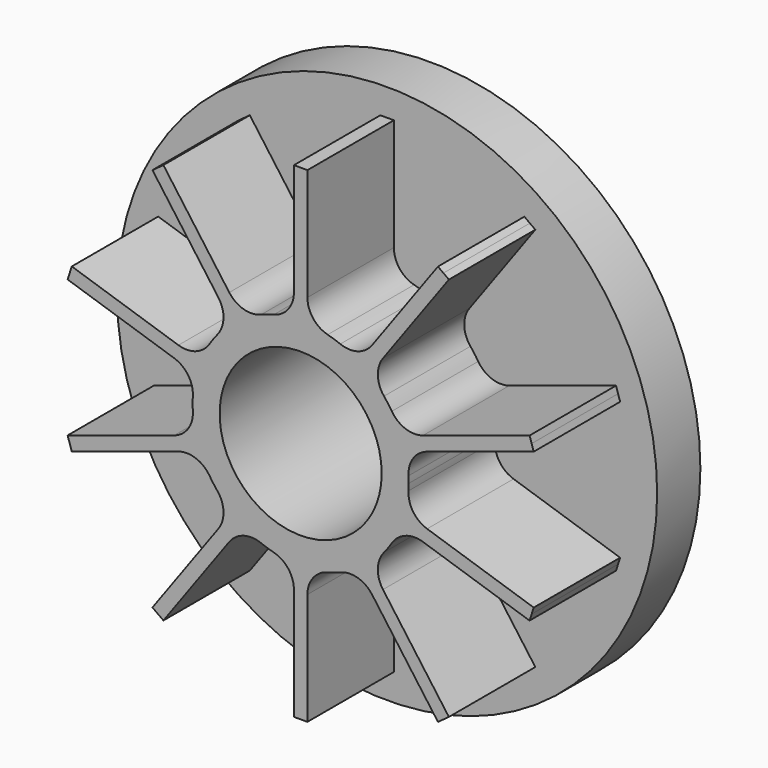
from build123d import *

# Parameters (mm, degrees)
F0_R     = 63.5
F1_DEPTH = 12.7
F3_DEPTH = 25.4
F4_R     = 6.35
F5_R     = 19.05
F6_DEPTH = 38.101
F7_R     = 59.055
F7_R_2   = 45.085
F8_DEPTH = 6.35


with BuildPart() as f1:
    # F0 (on Front) → F1 (new body)
    with BuildSketch(Plane.XZ):
        Circle(F0_R)
    extrude(amount=F1_DEPTH)

    # F2 (on face) → F3 (join)
    with BuildSketch(Plane.XZ.offset(12.7)):
        with BuildLine():
            ThreePointArc((24.600173, -6.323884), (25.19925, -3.187132), (25.4, 0))
            ThreePointArc((25.4, 0), (25.19925, 3.187132), (24.600173, 6.323884))
            ThreePointArc((24.600173, 6.323884), (24.156836, 7.849032), (23.619044, 9.343489))
            ThreePointArc((23.619044, 9.343489), (20.549032, 14.929745), (16.184872, 19.575748))
            ThreePointArc((16.184872, 19.575748), (14.929745, 20.549032), (13.616243, 21.441967))
            ThreePointArc((13.616243, 21.441967), (7.849032, 24.156836), (1.5875, 25.350342))
            ThreePointArc((1.5875, 25.350342), (0, 25.4), (-1.5875, 25.350342))
            ThreePointArc((-1.5875, 25.350342), (-7.849032, 24.156836), (-13.616243, 21.441967))
            ThreePointArc((-13.616243, 21.441967), (-14.929745, 20.549032), (-16.184872, 19.575748))
            ThreePointArc((-16.184872, 19.575748), (-20.549032, 14.929745), (-23.619044, 9.343489))
            ThreePointArc((-23.619044, 9.343489), (-24.156836, 7.849032), (-24.600173, 6.323884))
            ThreePointArc((-24.600173, 6.323884), (-25.4, 0), (-24.600173, -6.323884))
            ThreePointArc((-24.600173, -6.323884), (-24.156836, -7.849032), (-23.619044, -9.343489))
            ThreePointArc((-23.619044, -9.343489), (-20.549032, -14.929745), (-16.184872, -19.575748))
            ThreePointArc((-16.184872, -19.575748), (-14.929745, -20.549032), (-13.616243, -21.441967))
            ThreePointArc((-13.616243, -21.441967), (-7.849032, -24.156836), (-1.5875, -25.350342))
            ThreePointArc((-1.5875, -25.350342), (0, -25.4), (1.5875, -25.350342))
            ThreePointArc((1.5875, -25.350342), (7.849032, -24.156836), (13.616243, -21.441967))
            ThreePointArc((13.616243, -21.441967), (14.929745, -20.549032), (16.184872, -19.575748))
            ThreePointArc((16.184872, -19.575748), (20.549032, -14.929745), (23.619044, -9.343489))
            ThreePointArc((23.619044, -9.343489), (24.156836, -7.849032), (24.600173, -6.323884))
        make_face()
        with BuildLine():
            ThreePointArc((23.619044, 9.343489), (24.156836, 7.849032), (24.600173, 6.323884))
            Line((24.600173, 6.323884), (54.796217, 16.135174))
            Line((54.796217, 16.135174), (54.305652, 17.644976))
            Line((54.305652, 17.644976), (53.815088, 19.154778))
            Line((53.815088, 19.154778), (23.619044, 9.343489))
        make_face()
        with BuildLine():
            Line((54.796217, -16.135174), (24.600173, -6.323884))
            ThreePointArc((24.600173, -6.323884), (24.156836, -7.849032), (23.619044, -9.343489))
            Line((23.619044, -9.343489), (53.815088, -19.154778))
            Line((53.815088, -19.154778), (54.305652, -17.644976))
            Line((54.305652, -17.644976), (54.796217, -16.135174))
        make_face()
        with BuildLine():
            ThreePointArc((13.616243, 21.441967), (14.929745, 20.549032), (16.184872, 19.575748))
            Line((16.184872, 19.575748), (34.847053, 45.262038))
            Line((34.847053, 45.262038), (33.562739, 46.195147))
            Line((33.562739, 46.195147), (32.278424, 47.128256))
            Line((32.278424, 47.128256), (13.616243, 21.441967))
        make_face()
        with BuildLine():
            Line((34.847053, -45.262038), (16.184872, -19.575748))
            ThreePointArc((16.184872, -19.575748), (14.929745, -20.549032), (13.616243, -21.441967))
            Line((13.616243, -21.441967), (32.278424, -47.128256))
            Line((32.278424, -47.128256), (33.562739, -46.195147))
            Line((33.562739, -46.195147), (34.847053, -45.262038))
        make_face()
        with BuildLine():
            ThreePointArc((-1.5875, 25.350342), (0, 25.4), (1.5875, 25.350342))
            Line((1.5875, 25.350342), (1.5875, 57.100342))
            Line((1.5875, 57.100342), (0, 57.100342))
            Line((0, 57.100342), (-1.5875, 57.100342))
            Line((-1.5875, 57.100342), (-1.5875, 25.350342))
        make_face()
        with BuildLine():
            Line((1.5875, -57.100342), (1.5875, -25.350342))
            ThreePointArc((1.5875, -25.350342), (0, -25.4), (-1.5875, -25.350342))
            Line((-1.5875, -25.350342), (-1.5875, -57.100342))
            Line((-1.5875, -57.100342), (0, -57.100342))
            Line((0, -57.100342), (1.5875, -57.100342))
        make_face()
        with BuildLine():
            ThreePointArc((-16.184872, 19.575748), (-14.929745, 20.549032), (-13.616243, 21.441967))
            Line((-13.616243, 21.441967), (-32.278424, 47.128256))
            Line((-32.278424, 47.128256), (-33.562739, 46.195147))
            Line((-33.562739, 46.195147), (-34.847053, 45.262038))
            Line((-34.847053, 45.262038), (-16.184872, 19.575748))
        make_face()
        with BuildLine():
            Line((-32.278424, -47.128256), (-13.616243, -21.441967))
            ThreePointArc((-13.616243, -21.441967), (-14.929745, -20.549032), (-16.184872, -19.575748))
            Line((-16.184872, -19.575748), (-34.847053, -45.262038))
            Line((-34.847053, -45.262038), (-33.562739, -46.195147))
            Line((-33.562739, -46.195147), (-32.278424, -47.128256))
        make_face()
        with BuildLine():
            ThreePointArc((-24.600173, 6.323884), (-24.156836, 7.849032), (-23.619044, 9.343489))
            Line((-23.619044, 9.343489), (-53.815088, 19.154778))
            Line((-53.815088, 19.154778), (-54.305652, 17.644976))
            Line((-54.305652, 17.644976), (-54.796217, 16.135174))
            Line((-54.796217, 16.135174), (-24.600173, 6.323884))
        make_face()
        with BuildLine():
            Line((-53.815088, -19.154778), (-23.619044, -9.343489))
            ThreePointArc((-23.619044, -9.343489), (-24.156836, -7.849032), (-24.600173, -6.323884))
            Line((-24.600173, -6.323884), (-54.796217, -16.135174))
            Line((-54.796217, -16.135174), (-54.305652, -17.644976))
            Line((-54.305652, -17.644976), (-53.815088, -19.154778))
        make_face()
    extrude(amount=F3_DEPTH)

    # F4
    f4_edges = [f1.edges().sort_by_distance(p)[0] for p in [
        (-16.184872, -25.4, 19.575748),
        (-1.5875, -25.4, 25.350342),
        (-24.600173, -25.4, 6.323884),
        (-24.600173, -25.4, -6.323884),
        (-23.619044, -25.4, -9.343489),
        (-16.184872, -25.4, -19.575748),
        (-13.616243, -25.4, -21.441967),
        (-1.5875, -25.4, -25.350342),
        (13.616243, -25.4, -21.441967),
        (1.5875, -25.4, -25.350342),
        (16.184872, -25.4, -19.575748),
        (23.619044, -25.4, -9.343489),
        (24.600173, -25.4, -6.323884),
        (24.600173, -25.4, 6.323884),
        (23.619044, -25.4, 9.343489),
        (16.184872, -25.4, 19.575748),
        (13.616243, -25.4, 21.441967),
        (1.5875, -25.4, 25.350342),
        (-13.616243, -25.4, 21.441967),
        (-23.619044, -25.4, 9.343489),
    ]]
    fillet(f4_edges, radius=F4_R)

    # F5 (on face) → F6 (cut, through all)
    with BuildSketch(Plane.XZ.offset(38.1)):
        Circle(F5_R)
    extrude(amount=-F6_DEPTH, mode=Mode.SUBTRACT)

    # F7 (on face) → F8 (cut)
    with BuildSketch(Plane(origin=(0, 0, 0), x_dir=(-1, 0, 0), z_dir=(0, 1, 0))):
        Circle(F7_R)
        Circle(F7_R_2, mode=Mode.SUBTRACT)
    extrude(amount=-F8_DEPTH, mode=Mode.SUBTRACT)


solid = f1.part
